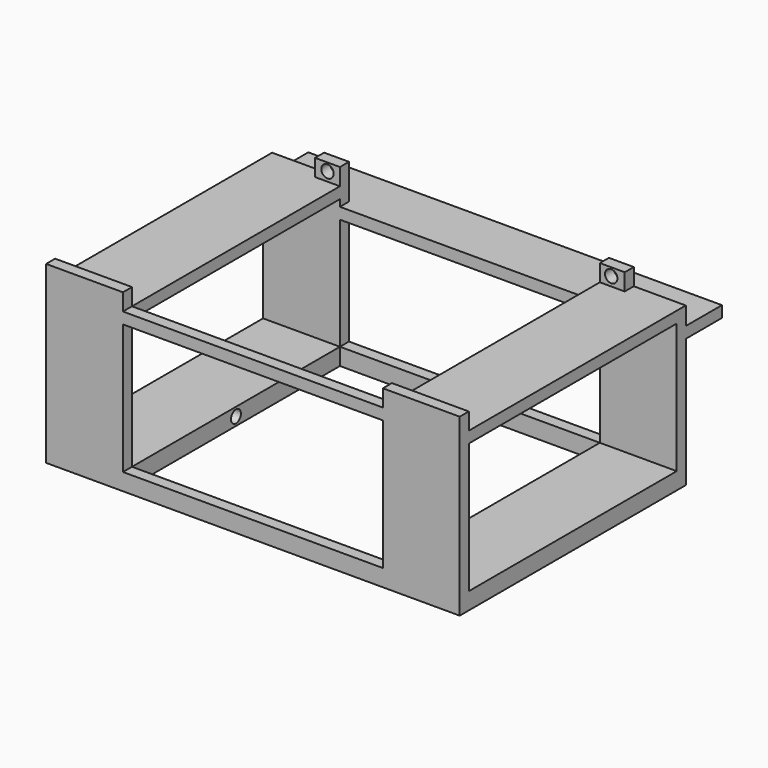
from build123d import *

# Parameters (mm, degrees)
F0_W      = 366
F0_H      = 250
F1_DEPTH  = 155
F2_T      = -10
F3_W      = 346
F3_H      = 230
F4_DEPTH  = 25
F5_W      = 230
F5_H      = 15
F6_DEPTH  = 500
F7_W      = 240
F7_H      = 15
F8_DEPTH  = 500
F9_W      = 50
F9_H      = 10
F10_DEPTH = 366
F11_W     = 230
F11_H     = 6
F11_H_2   = 10
F12_DEPTH = 200
F13_W     = 22
F13_H     = 10
F14_DEPTH = 15
F15_W     = 22
F15_H     = 10
F16_DEPTH = 15
F17_DEPTH = 58
F18_DEPTH = 58
F19_DEPTH = 58
F20_DEPTH = 58
F21_R     = 5.5
F22_DEPTH = 235
F23_R     = 5.5
F24_DEPTH = 25
F25_R     = 5.5
F26_DEPTH = 240
F27_DEPTH = 260
F28_R     = 5.5
F29_DEPTH = 235
F30_R     = 5.5
F31_DEPTH = 5


with BuildPart() as f1:
    # F0 (on Top) → F1 (new body)
    with BuildSketch(Plane.XY):
        Rectangle(F0_W, F0_H)
    extrude(amount=F1_DEPTH)

    # F2
    f2_openings = [f1.faces().sort_by_distance(p)[0] for p in [
        (0, 0, 155),
    ]]
    offset(amount=F2_T, openings=f2_openings)

    # F3 (on face) → F4 (cut)
    with BuildSketch(Plane.XY.offset(10)):
        Rectangle(F3_W, F3_H)
    extrude(amount=-F4_DEPTH, mode=Mode.SUBTRACT)

    # F5 (on face) → F6 (cut)
    with BuildSketch(Plane.XZ.offset(125)):
        Polygon((115, 130), (-115, 130), (-115, 15), (0, 15), (115, 15), align=None)
        with Locations((0, 147.5)):
            Rectangle(F5_W, F5_H)
    extrude(amount=-F6_DEPTH, mode=Mode.SUBTRACT)

    # F7 (on face) → F8 (cut)
    with BuildSketch(Plane(origin=(-183, 0, 0), x_dir=(0, -1, 0), z_dir=(-1, 0, 0))):
        with Locations((-5, 147.5)):
            Rectangle(F7_W, F7_H)
        Polygon((-115, 15), (0, 15), (115, 15), (115, 130), (-115, 130), align=None)
    extrude(amount=-F8_DEPTH, mode=Mode.SUBTRACT)

    # F9 (on face) → F10 (join, through all)
    with BuildSketch(Plane(origin=(-183, 0, 0), x_dir=(0, -1, 0), z_dir=(-1, 0, 0))):
        with Locations((-140, 119)):
            Rectangle(F9_W, F9_H)
    extrude(amount=-F10_DEPTH)

    # F11 (on face) → F12 (cut)
    with BuildSketch(Plane(origin=(0, 125, 0), x_dir=(-1, 0, 0), z_dir=(0, 1, 0))):
        with Locations((0, 127)):
            Rectangle(F11_W, F11_H)
        with Locations((0, 135)):
            Rectangle(F11_W, F11_H_2)
    extrude(amount=-F12_DEPTH, mode=Mode.SUBTRACT)

    # F13 (on face) → F14 (join)
    with BuildSketch(Plane.XY.offset(140)):
        with Locations((126, 120)):
            Rectangle(F13_W, F13_H)
    extrude(amount=F14_DEPTH)

    # F15 (on face) → F16 (join)
    with BuildSketch(Plane.XY.offset(140)):
        with Locations((-126, 120)):
            Rectangle(F15_W, F15_H)
    extrude(amount=F16_DEPTH)

    # F17 (add, through all): a face of the model
    f17_faces = [f1.faces().sort_by_distance(p)[0] for p in [
        (173, 0, 135),
    ]]
    extrude(f17_faces, amount=F17_DEPTH)

    # F18 (add, through all): a face of the model
    f18_faces = [f1.faces().sort_by_distance(p)[0] for p in [
        (-173, 0, 135),
    ]]
    extrude(f18_faces, amount=F18_DEPTH)

    # F19 (add, through all): a face of the model
    f19_faces = [f1.faces().sort_by_distance(p)[0] for p in [
        (173, 0, 7.5),
    ]]
    extrude(f19_faces, amount=F19_DEPTH)

    # F20 (add, through all): a face of the model
    f20_faces = [f1.faces().sort_by_distance(p)[0] for p in [
        (-173, 0, 7.5),
    ]]
    extrude(f20_faces, amount=F20_DEPTH)

    # F21 (on face) → F22 (cut)
    with BuildSketch(Plane.XZ.offset(-115)):
        with Locations((125, 148)):
            Circle(F21_R)
    extrude(amount=F22_DEPTH, mode=Mode.SUBTRACT)

    # F23 (on face) → F24 (cut)
    with BuildSketch(Plane.XZ.offset(-115)):
        with Locations((-126, 148)):
            Circle(F23_R)
    extrude(amount=-F24_DEPTH, mode=Mode.SUBTRACT)

    # F25 (on face) → F26 (cut)
    with BuildSketch(Plane(origin=(115, 0, 0), x_dir=(0, -1, 0), z_dir=(-1, 0, 0))):
        with Locations((0, 7.5)):
            Circle(F25_R)
    extrude(amount=F26_DEPTH, mode=Mode.SUBTRACT)

    # F27 (cut): a face of the model
    f27_faces = [f1.faces().sort_by_distance(p)[0] for p in [
        (125, -120, 148),
    ]]
    extrude(f27_faces, amount=F27_DEPTH, mode=Mode.SUBTRACT)

    # F28 (on face) → F29 (cut)
    with BuildSketch(Plane.XZ.offset(-115)):
        with Locations((-126, 148)):
            Circle(F28_R)
    extrude(amount=F29_DEPTH, mode=Mode.SUBTRACT)

    # F30 (on face) → F31 (cut)
    with BuildSketch(Plane(origin=(115, 0, 0), x_dir=(0, -1, 0), z_dir=(-1, 0, 0))):
        with Locations((0, 7.5)):
            Circle(F30_R)
    extrude(amount=-F31_DEPTH, mode=Mode.SUBTRACT)


solid = f1.part
